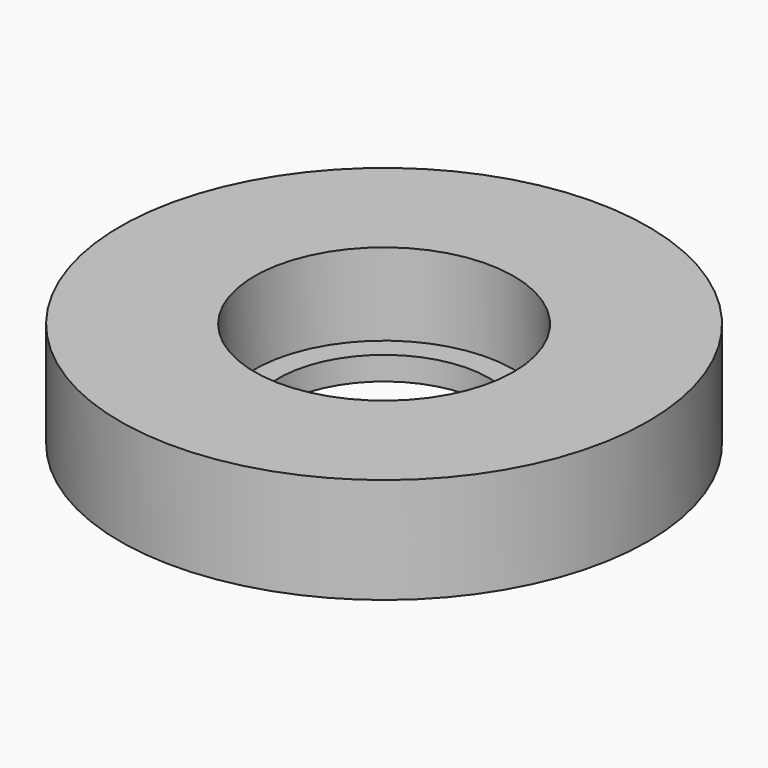
from build123d import *

# Parameters (mm, degrees)
F0_R     = 22.5
F1_DEPTH = 9
F2_R     = 9
F3_DEPTH = 9.001
F4_R     = 11.05
F5_DEPTH = 7


with BuildPart() as f1:
    # F0 (on Top) → F1 (new body)
    with BuildSketch(Plane.XY):
        Circle(F0_R)
    extrude(amount=F1_DEPTH)

    # F2 (on face) → F3 (cut, through all)
    with BuildSketch(Plane.XY.offset(9)):
        Circle(F2_R)
    extrude(amount=-F3_DEPTH, mode=Mode.SUBTRACT)

    # F4 (on face) → F5 (cut)
    with BuildSketch(Plane.XY.offset(9)):
        Circle(F4_R)
    extrude(amount=-F5_DEPTH, mode=Mode.SUBTRACT)


solid = f1.part
